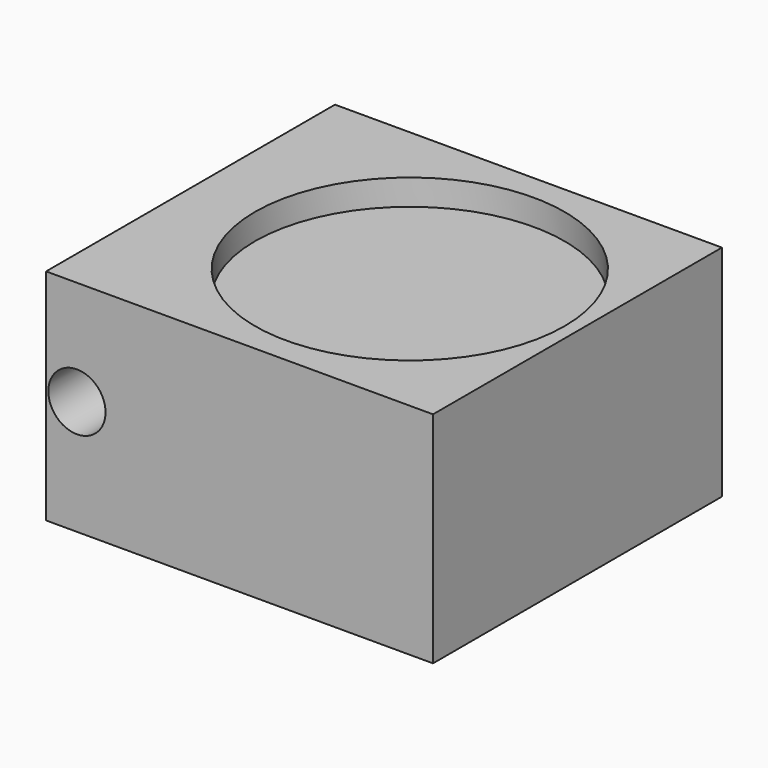
from build123d import *

# Parameters (mm, degrees)
F0_W     = 150
F0_H     = 140
F1_DEPTH = 85
F2_R     = 11.08773
F3_DEPTH = 25
F4_R     = 60
F5_DEPTH = 10


with BuildPart() as f1:
    # F0 (on Top) → F1 (new body)
    with BuildSketch(Plane.XY):
        Rectangle(F0_W, F0_H)
    extrude(amount=F1_DEPTH)

    # F2 (on face) → F3 (cut)
    with BuildSketch(Plane.XZ.offset(70)):
        with Locations((-63.034661, 44.377975)):
            Circle(F2_R)
    extrude(amount=-F3_DEPTH, mode=Mode.SUBTRACT)

    # F4 (on face) → F5 (cut)
    with BuildSketch(Plane.XY.offset(85)):
        with Locations((10, 0)):
            Circle(F4_R)
    extrude(amount=-F5_DEPTH, mode=Mode.SUBTRACT)


solid = f1.part
